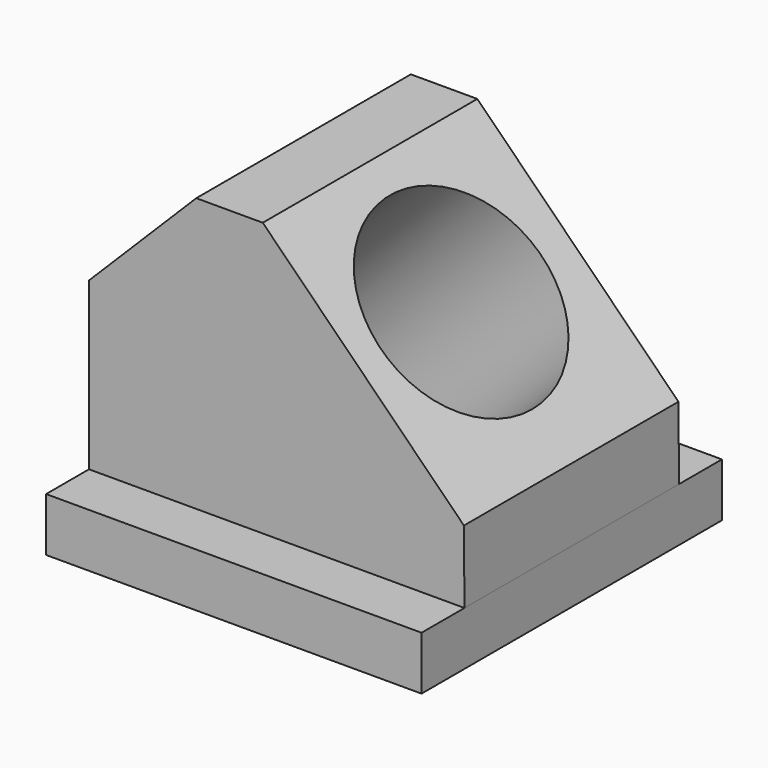
from build123d import *

# Parameters (mm, degrees)
F0_W      = 71.12
F0_H      = 71.12
F1_DEPTH  = 61.976
F2_W      = 71.12
F2_H      = 51.816
F3_DEPTH  = 10.16
F4_W      = 71.12
F4_H      = 51.816
F5_DEPTH  = 10.16
F7_DEPTH  = 76.2
F9_DEPTH  = 76.2
F10_R     = 19.05
F11_DEPTH = 76.2


with BuildPart() as f1:
    # F0 (on Top) → F1 (new body)
    with BuildSketch(Plane.XY):
        with Locations((-18.7232699245, 27.0034961376)):
            Rectangle(F0_W, F0_H)
    extrude(amount=F1_DEPTH)

    # F2 (on face) → F3 (cut)
    with BuildSketch(Plane.XZ.offset(8.5565038624)):
        with Locations((-18.7232699245, 36.068)):
            Rectangle(F2_W, F2_H)
    extrude(amount=-F3_DEPTH, mode=Mode.SUBTRACT)

    # F4 (on face) → F5 (cut)
    with BuildSketch(Plane(origin=(0, 62.5634961376, 0), x_dir=(-1, 0, 0), z_dir=(0, 1, 0))):
        with Locations((18.7232699245, 36.068)):
            Rectangle(F4_W, F4_H)
    extrude(amount=-F5_DEPTH, mode=Mode.SUBTRACT)

    # F6 (on face) → F7 (cut)
    with BuildSketch(Plane.XZ.offset(-1.6034961376)):
        Polygon((-33.9632699245, 61.976), (-54.2832699245, 61.976), (-54.2832699245, 41.656), align=None)
    extrude(amount=-F7_DEPTH, mode=Mode.SUBTRACT)

    # F8 (on face) → F9 (cut)
    with BuildSketch(Plane.XZ.offset(-1.6034961376)):
        Polygon((-21.3656260499, 61.976), (16.7347530496, 23.8756209005), (16.8367300755, 10.16), (16.8367300755, 61.976), align=None)
    extrude(amount=-F9_DEPTH, mode=Mode.SUBTRACT)

    # F10 (on face) → F11 (cut)
    with BuildSketch(Plane(origin=(20.3051869751, 0, 20.3051869751), x_dir=(0.7071067812, 0, -0.7071067812), z_dir=(0.7071067812, 0, 0.7071067812))):
        with Locations((-33.9787192643, 26.5149436891)):
            Circle(F10_R)
    extrude(amount=-F11_DEPTH, mode=Mode.SUBTRACT)


solid = f1.part
